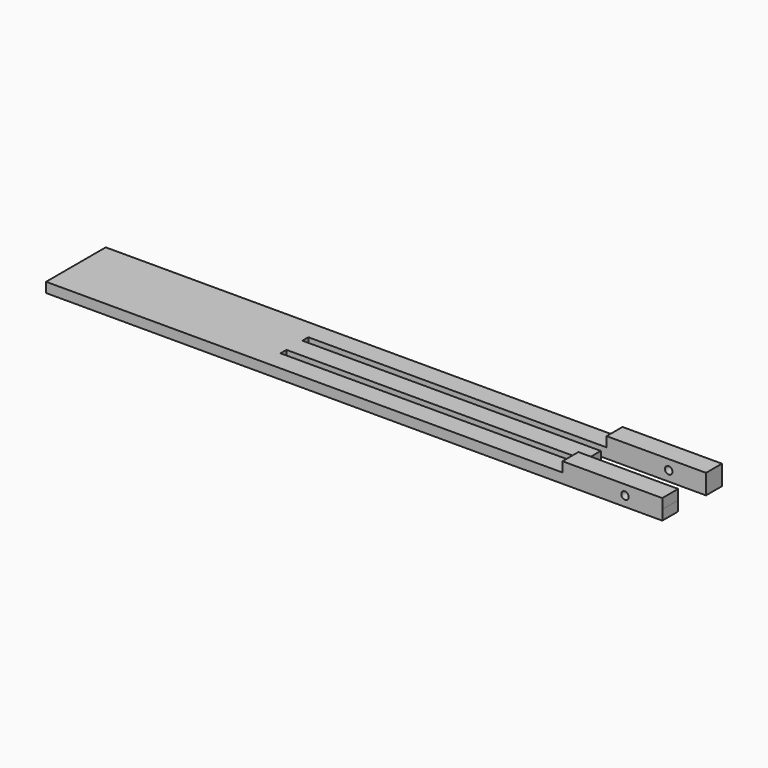
from build123d import *

# Parameters (mm, degrees)
F1_DEPTH = 4
F2_W     = 39.990724
F2_H     = 8
F2_W_2   = 40.150487
F3_DEPTH = 4
F4_DEPTH = 4
F5_R     = 1.5
F6_DEPTH = 43


with BuildPart() as f1:
    # F0 (on Top) → F1 (new body)
    with BuildSketch(Plane.XY):
        Polygon((-123.954707, -15), (123.954707, -15), (123.954707, -7), (-36.045293, -7), (-36.045293, -4), (84.019206, -4), (84.019206, 4), (83.963744, 4), (83.954707, 4), (-36.045293, 4), (-36.045293, 7), (123.954707, 7), (123.954707, 15), (-123.954707, 15), align=None)
    extrude(amount=F1_DEPTH)

    # F2 (on face) → F3 (join)
    with BuildSketch(Plane.XY.offset(4)):
        with Locations((103.959345, 11)):
            Rectangle(F2_W, F2_H)
        with Locations((103.879463, -11)):
            Rectangle(F2_W_2, F2_H)
    extrude(amount=F3_DEPTH)

    # F2 (on face) → F4 (join)
    with BuildSketch(Plane.XY.offset(4)):
        with Locations((103.959345, 11)):
            Rectangle(F2_W, F2_H)
        with Locations((103.879463, -11)):
            Rectangle(F2_W_2, F2_H)
    extrude(amount=F4_DEPTH)

    # F5 (on face) → F6 (cut)
    with BuildSketch(Plane.XZ.offset(15)):
        with Locations((108.954707, 4)):
            Circle(F5_R)
    extrude(amount=-F6_DEPTH, mode=Mode.SUBTRACT)


solid = f1.part
